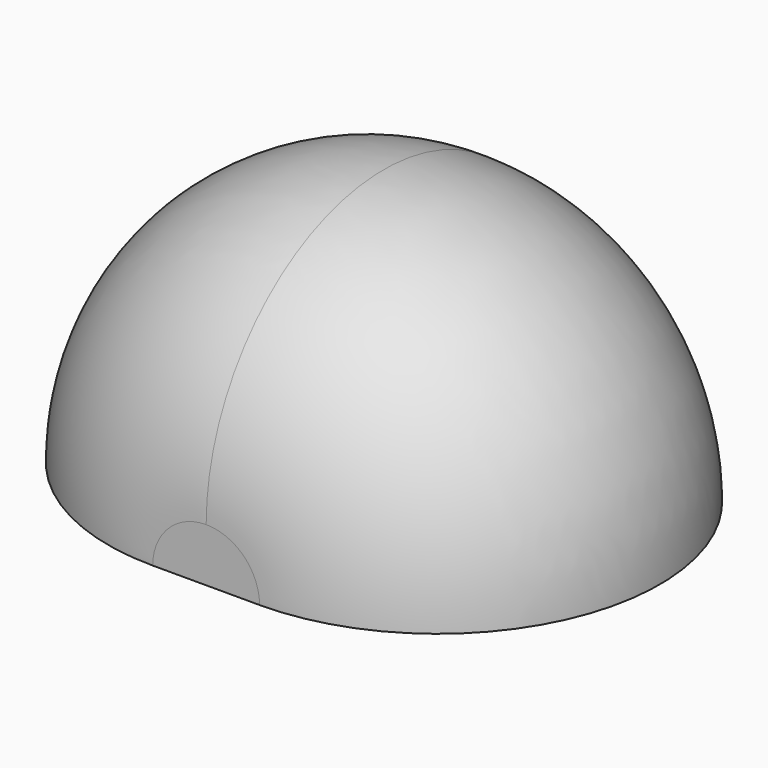
from build123d import *

# Parameters (mm, degrees)
F1_ANGLE = 180


with BuildPart() as f1:
    # F0 (on Right) → F1 (revolve, symmetric)
    with BuildSketch(Plane.YZ) as f1_sk:
        with BuildLine():
            Line((104.235806, 0), (104, 0))
            ThreePointArc((104, 0), (0, 104), (-104, 0))
            Line((-104, 0), (-104, -25))
            Line((-104, -25), (104.235806, -25))
            Line((104.235806, -25), (104.235806, 0))
        make_face()
    revolve(axis=Axis((0, 0.117903, -25), (0, 1, 0)), revolution_arc=F1_ANGLE / 2)
    revolve(f1_sk.sketch, axis=Axis((0, 0.117903, -25), (0, -1, 0)), revolution_arc=F1_ANGLE / 2)


solid = f1.part
